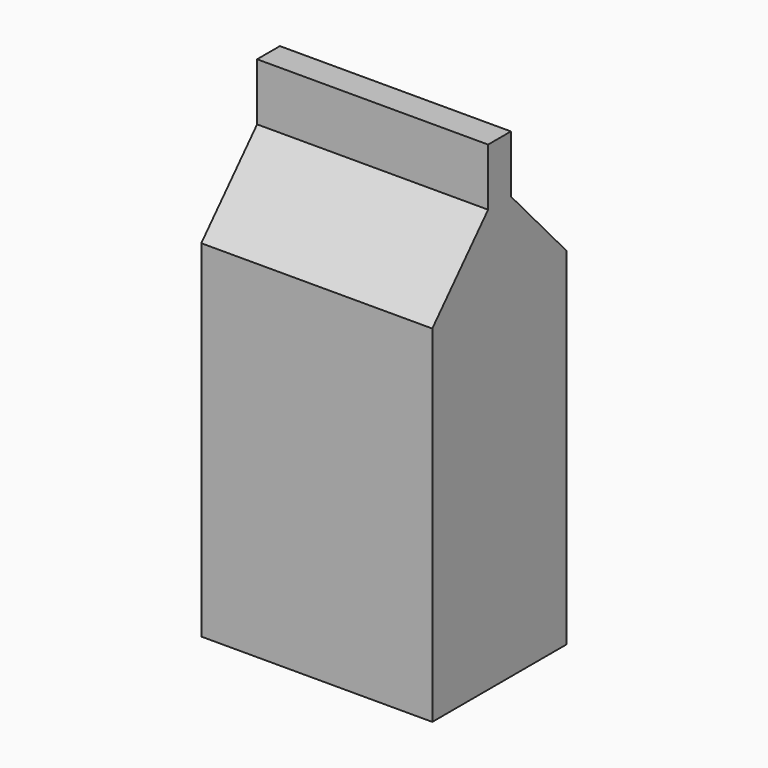
from build123d import *

# Parameters (mm, degrees)
F1_DEPTH      = 25.4
F1_DEPTH_BACK = 25.4


with BuildPart() as f1:
    # F0 (on Right) → F1 (new body, two sides)
    with BuildSketch(Plane.YZ) as f1_sk:
        Polygon((-18.474095, -38.079124), (18.474095, -38.079124), (18.474095, 38.079124), (3.134074, 54.85357), (3.134074, 67.459583), (0, 67.459583), (-3.134074, 67.459583), (-3.134074, 54.85357), (-18.474095, 38.079124), align=None)
    extrude(amount=F1_DEPTH)
    extrude(f1_sk.sketch, amount=-F1_DEPTH_BACK)


solid = f1.part
